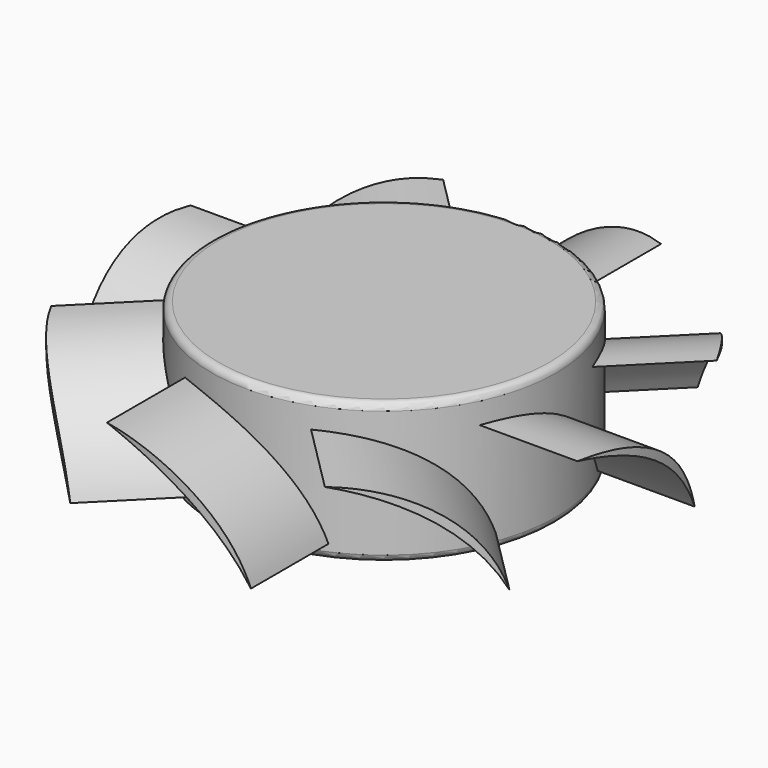
from build123d import *

# Parameters (mm, degrees)
SKETCH050_R           = 12.25
PAD017_DEPTH          = 10
FILLET021_R           = 0.5
PAD018_DEPTH          = 7.5
SKETCH051_R           = 32.89
SKETCH051_R_2         = 18.75
POCKET015_DEPTH       = 94.210561
POLARPATTERN003_COUNT = 8


with BuildPart() as part:
    # Sketch050 → Pad017 (new body)
    with BuildSketch(Plane.XY):
        Circle(SKETCH050_R)
    extrude(amount=PAD017_DEPTH)

    # Fillet021
    fillet021_edges = [part.edges().sort_by_distance(p)[0] for p in [
        (-12.25, 0, 10),
        (-12.25, 0, 0),
    ]]
    fillet(fillet021_edges, radius=FILLET021_R)

    # Sketch054 (on DatumPlane) → Pad018 (join, symmetric)
    with BuildSketch(Plane(origin=(0, 13, -2), x_dir=(1, 0, 0), z_dir=(0, -1, 0))):
        with BuildLine():
            ThreePointArc((5.3, 10), (-1.072659, 8.299055), (-5, 3))
            ThreePointArc((5.3, 10), (-0.742753, 7.813623), (-5, 3))
        make_face()
    pad018 = extrude(amount=PAD018_DEPTH, both=True)

    # Sketch051 (on Face7 of Pad018) → Pocket015 (cut, through all)
    with BuildSketch(Plane.XY.offset(10)):
        Circle(SKETCH051_R)
        Circle(SKETCH051_R_2, mode=Mode.SUBTRACT)
    pocket015 = extrude(amount=-POCKET015_DEPTH, mode=Mode.SUBTRACT)

    # PolarPattern003: Pad018, Pocket015 ×8 about axis
    polarpattern003_axis = Axis((0, 0, 0), (0, 0, 1))
    for i in range(1, POLARPATTERN003_COUNT):
        add(pad018.rotate(polarpattern003_axis, i * 360 / POLARPATTERN003_COUNT))
        add(pocket015.rotate(polarpattern003_axis, i * 360 / POLARPATTERN003_COUNT), mode=Mode.SUBTRACT)


solid = part.part
